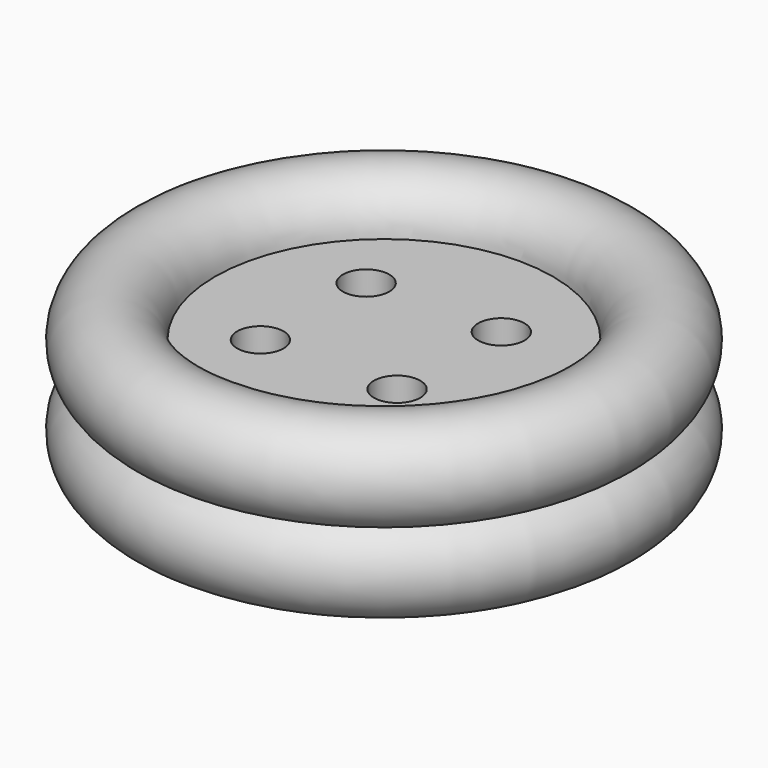
from build123d import *

# Parameters (mm, degrees)
F2_R     = 1.905
F3_DEPTH = 25.4


with BuildPart() as f1:
    # F0 (on Front) → F1 (revolve)
    with BuildSketch(Plane.XZ):
        Polygon((-13.8811003439, 0), (0, 0), (0, 6.5071131103), (-13.8830111907, 6.5071131103), (-17.7800003439, 6.5071131103), (-17.7800003439, 3.8989), (-17.7800003439, 2.6101239571), (-17.7800003439, 0), align=None)
        with BuildLine():
            ThreePointArc((-19.9267050901, 3.2547012063), (-19.6281932552, -3.4330167743), (-13.8811003439, 0))
            Line((-13.8811003439, 0), (-17.7800003439, 0))
            Line((-17.7800003439, 0), (-17.7800003439, 2.6101239571))
            ThreePointArc((-17.7800003439, 2.6101239571), (-18.9006944478, 2.7747453382), (-19.9267050901, 3.2547012063))
        make_face()
        with BuildLine():
            ThreePointArc((-17.7800003439, 3.8989), (-18.9006400444, 3.7343791816), (-19.9267050901, 3.2547012063))
            ThreePointArc((-19.9267050901, 3.2547012063), (-18.9006944478, 2.7747453382), (-17.7800003439, 2.6101239571))
            Line((-17.7800003439, 2.6101239571), (-17.7800003439, 3.8989))
        make_face()
        with BuildLine():
            ThreePointArc((-13.8830111907, 6.5071131103), (-19.6267325049, 9.9387460723), (-19.9267050901, 3.2547012063))
            ThreePointArc((-19.9267050901, 3.2547012063), (-18.9006400444, 3.7343791816), (-17.7800003439, 3.8989))
            Line((-17.7800003439, 3.8989), (-17.7800003439, 6.5071131103))
            Line((-17.7800003439, 6.5071131103), (-13.8830111907, 6.5071131103))
        make_face()
    revolve(axis=Axis((0, 0, 3.2535565551), (0, 0, 1)))

    # F2 (on Top) → F3 (cut)
    with BuildSketch(Plane.XY):
        with Locations((-5.7498575188, 5.3529855795)):
            Circle(F2_R)
        with Locations((5.2605080418, 5.4753227159)):
            Circle(F2_R)
        with Locations((-6.1168693937, -5.0456924364)):
            Circle(F2_R)
        with Locations((5.0158319063, -4.9233548343)):
            Circle(F2_R)
    extrude(amount=F3_DEPTH, mode=Mode.SUBTRACT)


solid = f1.part
